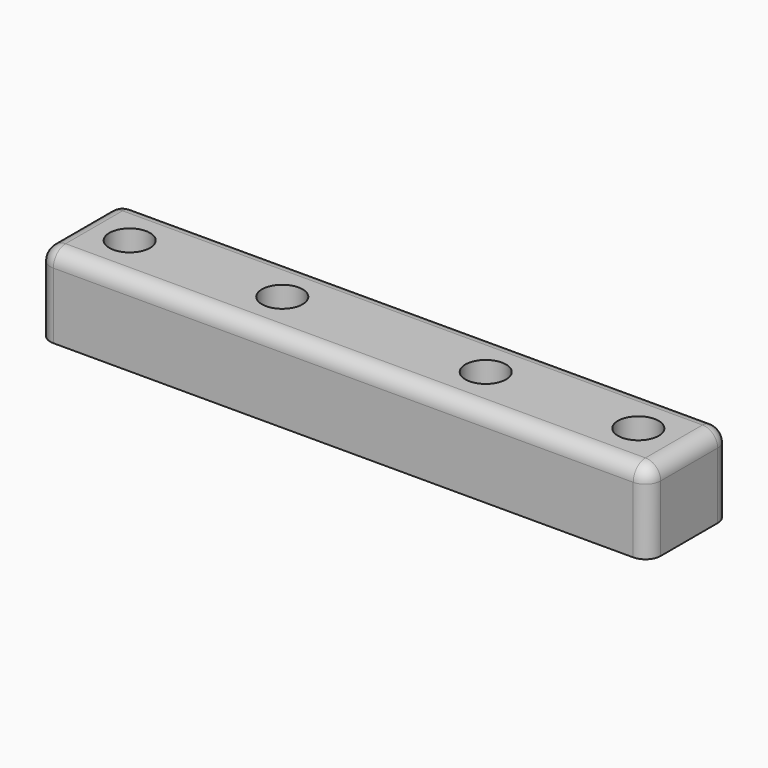
from build123d import *

# Parameters (mm, degrees)
F0_R      = 2
F1_DEPTH  = 10
F2_R      = 5
F4_R      = 2
F5_DEPTH  = 10
F7_R      = 5
F7_2_R    = 5
F8_R      = 2
F8_2_R    = 2
F10_DEPTH = 25
F11_R     = 1.5
F12_R     = 1.75
F13_DEPTH = 12.5
F15_W     = 9
F15_H     = 20
F16_DEPTH = 10
F17_W     = 6
F17_H     = 20
F18_DEPTH = 25
F21_R     = 2
F22_DEPTH = 30
F24_R     = 2
F25_DEPTH = 12.5
F27_R     = 2
F28_R     = 2
F29_DEPTH = 8
F30_R     = 2
F31_R     = 2
F32_R     = 1.75
F33_DEPTH = 25
F32_R_2   = 2
F37_ANGLE = 90
F40_W     = 60
F40_H     = 10
F40_R     = 2
F41_DEPTH = 8
F43_R     = 1.5


with BuildPart() as f1:
    # F0 (on Top) → F1 (new body)
    with BuildSketch(Plane.XY):
        Polygon((0, 70), (0, 75), (-20, 75), (-30, 75), (-50, -75), (-40, -75), (0, -75), (0, -65), (-38.6666666667, -65), (-30.8, -6), (0, -6), (0, 0), (0, 6), (-29.2, 6), (-21.3333333333, 65), (0, 65), align=None)
        with Locations((-15, 0)):
            Circle(F0_R, mode=Mode.SUBTRACT)
        with Locations((-10.4101235047, 70)):
            Circle(F0_R, mode=Mode.SUBTRACT)
    extrude(amount=F1_DEPTH)

    # F2
    f2_edges = [f1.edges().sort_by_distance(p)[0] for p in [
        (-21.333333, 65, 5),
        (-30.8, -6, 5),
        (-29.2, 6, 5),
        (-38.666667, -65, 5),
        (-50, -75, 5),
    ]]
    fillet(f2_edges, radius=F2_R)

    # F3: F1 across plane


with BuildPart() as f1_1:
    add(f1.part)
    add(f1.part.mirror(Plane.YZ))

    # F4 (on Top) → F5 (join)
    with BuildSketch(Plane.XY):
        with BuildLine():
            Line((0, 80), (0, 75))
            Line((0, 75), (10, 75))
            Line((10, 75), (30, 75))
            Line((30, 75), (13.3333333333, 200))
            Line((13.3333333333, 200), (4.5, 200))
            Line((4.5, 200), (4.5, 192))
            ThreePointArc((4.5, 192), (3.1819805153, 188.8180194847), (0, 187.5))
            Line((0, 187.5), (0, 170.1721444783))
            Line((0, 170.1721444783), (7.3103807362, 170.1721444783))
            Line((7.3103807362, 170.1721444783), (10, 150))
            Line((10, 150), (18.6666666667, 85))
            Line((18.6666666667, 85), (10, 85))
            Line((10, 85), (0, 85))
            Line((0, 85), (0, 80))
        make_face()
        with Locations((10, 80)):
            Circle(F4_R, mode=Mode.SUBTRACT)
    extrude(amount=F5_DEPTH)


with BuildPart() as f6_1:
    # F6: instance of F1
    add(f1_1.part.mirror(Plane.YZ))

    # F7
    f7_edges = [f6_1.edges().sort_by_distance(p)[0] for p in [
        (-7.310381, 170.172144, 5),
        (-18.666667, 85, 5),
        (-13.333333, 200, 5),
    ]]
    fillet(f7_edges, radius=F7_R)

    # F8#2
    f8_2_edges = [f6_1.edges().sort_by_distance(p)[0] for p in [
        (-4.5, 200, 5),
    ]]
    fillet(f8_2_edges, radius=F8_2_R)


with BuildPart() as f1_2:
    add(f1_1.part)

    # F7#2
    f7_2_edges = [f1_2.edges().sort_by_distance(p)[0] for p in [
        (7.310381, 170.172144, 5),
        (18.666667, 85, 5),
        (13.333333, 200, 5),
    ]]
    fillet(f7_2_edges, radius=F7_2_R)

    # F8
    f8_edges = [f1_2.edges().sort_by_distance(p)[0] for p in [
        (4.5, 200, 5),
    ]]
    fillet(f8_edges, radius=F8_R)

    add(f6_1.part)  # F10 merges F6_1
    # F9 (on Top) → F10 (join)
    with BuildSketch(Plane.XY):
        Polygon((0, -6), (0, 0), (0, 6), (-6, 6), (-6, -6), align=None)
    extrude(amount=F10_DEPTH)

    # F11
    f11_edges = [f1_2.edges().sort_by_distance(p)[0] for p in [
        (-6, -6, 17.5),
        (-6, 0, 25),
        (-3, -6, 25),
        (-6, 6, 17.5),
        (-3, 6, 25),
    ]]
    fillet(f11_edges, radius=F11_R)


with BuildPart() as f13:
    # F12 (on Right) → F13 (new body, symmetric)
    with BuildSketch(Plane.YZ):
        with Locations((0, 20)):
            Circle(F12_R)
    extrude(amount=F13_DEPTH, both=True)


with BuildPart() as f13b:
    # F12 (on Right) → F13, piece 2 (new body, symmetric)
    with BuildSketch(Plane.YZ):
        with Locations((0, 15)):
            Circle(F12_R)
    extrude(amount=F13_DEPTH, both=True)


with BuildPart() as f1_3:
    add(f1_2.part)

    # F14: cut F13b, F13
    add(f13b.part, mode=Mode.SUBTRACT)
    add(f13.part, mode=Mode.SUBTRACT)


with BuildPart() as f16:
    # F15 (on Top) → F16 (new body)
    with BuildSketch(Plane.XY):
        Polygon((0, 65), (15, 65), (15, 85), (0, 85), (0, 75), align=None)
        Polygon((-6, 65), (0, 65), (0, 75), (0, 85), (-6, 85), align=None)
        with Locations((-10.5, 75)):
            Rectangle(F15_W, F15_H)
    extrude(amount=F16_DEPTH)


with BuildPart() as f18:
    # F17 (on Top) → F18 (new body)
    with BuildSketch(Plane.XY):
        with Locations((-3, 75)):
            Rectangle(F17_W, F17_H)
    extrude(amount=F18_DEPTH)


with BuildPart() as f16_1:
    add(f16.part)

    # F19: union F18
    add(f18.part)


with BuildPart() as f16_2:
    # F20: moved
    add(f16_1.part.moved(Location((0, 0, 10))))


with BuildPart() as f22:
    # F21 (on Top) → F22 (new body)
    with BuildSketch(Plane.XY):
        with Locations((-10, 80)):
            Circle(F21_R)
    extrude(amount=F22_DEPTH)


with BuildPart() as f22b:
    # F21 (on Top) → F22, piece 2 (new body)
    with BuildSketch(Plane.XY):
        with Locations((10, 80)):
            Circle(F21_R)
    extrude(amount=F22_DEPTH)


with BuildPart() as f22c:
    # F21 (on Top) → F22, piece 3 (new body)
    with BuildSketch(Plane.XY):
        with Locations((-10.4, 70)):
            Circle(F21_R)
    extrude(amount=F22_DEPTH)


with BuildPart() as f22d:
    # F21 (on Top) → F22, piece 4 (new body)
    with BuildSketch(Plane.XY):
        with Locations((10.4, 70)):
            Circle(F21_R)
    extrude(amount=F22_DEPTH)


with BuildPart() as f16_3:
    add(f16_2.part)

    # F23: cut F22d, F22c, F22b, F22
    add(f22d.part, mode=Mode.SUBTRACT)
    add(f22c.part, mode=Mode.SUBTRACT)
    add(f22b.part, mode=Mode.SUBTRACT)
    add(f22.part, mode=Mode.SUBTRACT)


with BuildPart() as f25:
    # F24 (on Right) → F25 (new body, symmetric)
    with BuildSketch(Plane.YZ):
        with Locations((80, 27.2266920656)):
            Circle(F24_R)
    extrude(amount=F25_DEPTH, both=True)


with BuildPart() as f25b:
    # F24 (on Right) → F25, piece 2 (new body, symmetric)
    with BuildSketch(Plane.YZ):
        with Locations((70, 27.2266920656)):
            Circle(F24_R)
    extrude(amount=F25_DEPTH, both=True)


with BuildPart() as f16_4:
    add(f16_3.part)

    # F26: cut F25b, F25
    add(f25b.part, mode=Mode.SUBTRACT)
    add(f25.part, mode=Mode.SUBTRACT)

    # F27
    f27_edges = [f16_4.edges().sort_by_distance(p)[0] for p in [
        (-6, 65, 27.5),
        (-3, 65, 35),
        (-10.5, 65, 20),
        (-15, 65, 15),
        (7.5, 65, 20),
        (15, 65, 15),
        (15, 75, 10),
        (-15, 75, 10),
        (-6, 75, 35),
        (-10.5, 85, 20),
        (-15, 85, 15),
        (-6, 85, 27.5),
        (-3, 85, 35),
        (7.5, 85, 20),
        (15, 85, 15),
    ]]
    fillet(f27_edges, radius=F27_R)


with BuildPart() as f29:
    # F28 (on Right) → F29 (new body)
    with BuildSketch(Plane.YZ):
        Polygon((-6, 10), (0, 10), (6, 10), (6, 25), (65, 35), (65, 20), (75, 20), (85, 20), (85, 35), (85, 120), (75, 120), (-6, 25), align=None)
        Polygon((17.4430621123, 37.0821219176), (23.9249371816, 44.6843210729), (75, 104.5871725266), (75, 45), (64.1585427985, 45), (51.9163602293, 42.9250538018), align=None, mode=Mode.SUBTRACT)
        with Locations((80, 95)):
            Circle(F28_R, mode=Mode.SUBTRACT)
        with Locations((80, 110)):
            Circle(F28_R, mode=Mode.SUBTRACT)
    extrude(amount=F29_DEPTH)

    # F30
    f30_edges = [f29.edges().sort_by_distance(p)[0] for p in [
        (4, 75, 104.587173),
        (4, 75, 45),
        (4, 17.443062, 37.082122),
        (4, 65, 35),
        (4, 6, 25),
        (4, -6, 25),
    ]]
    fillet(f30_edges, radius=F30_R)

    # F31
    f31_edges = [f29.edges().sort_by_distance(p)[0] for p in [
        (8, 46.246648, 70.864105),
        (8, 34.73905, 72.780367),
        (8, 35.165784, 29.943353),
        (8, 85, 70),
    ]]
    fillet(f31_edges, radius=F31_R)


with BuildPart() as f33:
    # F32 (on Right) → F33 (new body)
    with BuildSketch(Plane.YZ):
        with Locations((0, 20)):
            Circle(F32_R)
    extrude(amount=F33_DEPTH)


with BuildPart() as f33b:
    # F32 (on Right) → F33, piece 2 (new body)
    with BuildSketch(Plane.YZ):
        with Locations((0, 15)):
            Circle(F32_R)
    extrude(amount=F33_DEPTH)


with BuildPart() as f33c:
    # F32 (on Right) → F33, piece 3 (new body)
    with BuildSketch(Plane.YZ):
        with Locations((70, 27.25)):
            Circle(F32_R_2)
    extrude(amount=F33_DEPTH)


with BuildPart() as f33d:
    # F32 (on Right) → F33, piece 4 (new body)
    with BuildSketch(Plane.YZ):
        with Locations((80, 27.25)):
            Circle(F32_R_2)
    extrude(amount=F33_DEPTH)


with BuildPart() as f29_1:
    add(f29.part)

    # F34: cut F33d, F33c, F33b, F33
    add(f33d.part, mode=Mode.SUBTRACT)
    add(f33c.part, mode=Mode.SUBTRACT)
    add(f33b.part, mode=Mode.SUBTRACT)
    add(f33.part, mode=Mode.SUBTRACT)


with BuildPart() as f29_2:
    # F37: moved
    add(f29_1.part.rotate(Axis((0, -39.3833108246, 0), (0, -1, 0)), F37_ANGLE))


with BuildPart() as f29_3:
    # F38: moved
    add(f29_2.part.moved(Location((120, -60, 0))))


with BuildPart() as f39_1:
    # F39: instance of F29
    add(f29_3.part.mirror(Plane.YZ))


with BuildPart() as f41:
    # F40 (on Top) → F41 (new body)
    with BuildSketch(Plane.XY):
        with Locations((0, 20)):
            Rectangle(F40_W, F40_H)
        with Locations((-25, 20)):
            Circle(F40_R, mode=Mode.SUBTRACT)
        with Locations((-10, 20)):
            Circle(F40_R, mode=Mode.SUBTRACT)
        with Locations((10, 20)):
            Circle(F40_R, mode=Mode.SUBTRACT)
        with Locations((25, 20)):
            Circle(F40_R, mode=Mode.SUBTRACT)
    extrude(amount=F41_DEPTH)


with BuildPart() as f41_1:
    # F42: moved
    add(f41.part.moved(Location((0, 0, 8))))

    # F43
    f43_edges = [f41_1.edges().sort_by_distance(p)[0] for p in [
        (0, 15, 16),
        (30, 15, 12),
        (30, 25, 12),
        (30, 20, 16),
        (-30, 20, 16),
        (-30, 15, 12),
        (-30, 25, 12),
        (0, 25, 16),
    ]]
    fillet(f43_edges, radius=F43_R)


solid = f41_1.part
